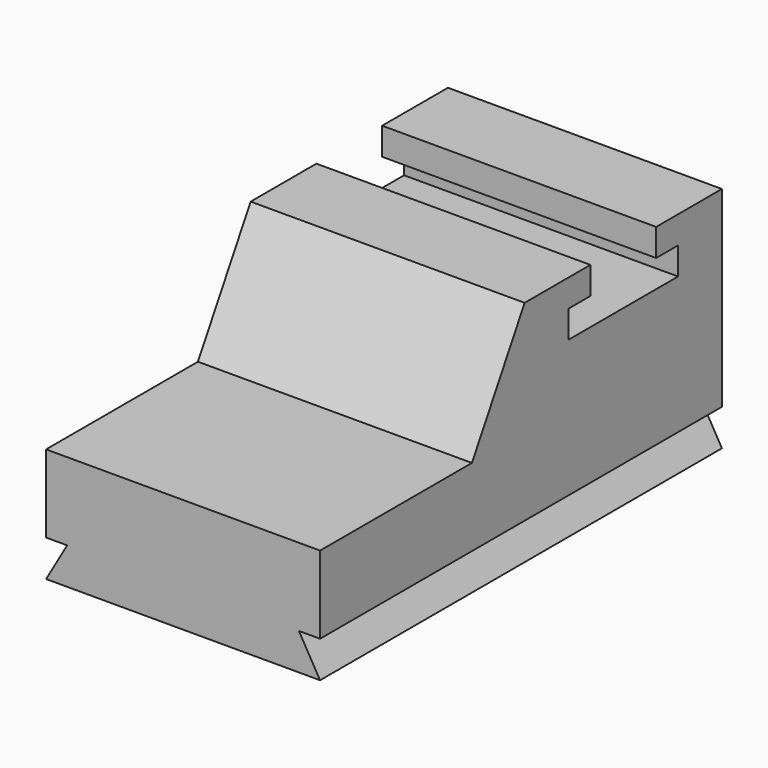
from build123d import *

# Parameters (mm, degrees)
F1_DEPTH = 1524
F2_W     = 1524
F2_H     = 203.2
F3_DEPTH = 2794
F5_DEPTH = 2794


with BuildPart() as f1:
    # F0 (on Right) → F1 (new body)
    with BuildSketch(Plane.YZ):
        Polygon((0, 635), (0, 203.2), (2794, 203.2), (2794, 1270), (2336.8, 1270), (2336.8, 1117.6), (2489.2, 1117.6), (2489.2, 965.2), (1727.2, 965.2), (1727.2, 1117.6), (1879.6, 1117.6), (1879.6, 1270), (1422.4, 1270), (1055.782579, 635), align=None)
    extrude(amount=F1_DEPTH)

    # F2 (on Front) → F3 (join)
    with BuildSketch(Plane.XZ):
        with Locations((762, 101.6)):
            Rectangle(F2_W, F2_H)
    extrude(amount=-F3_DEPTH)

    # F4 (on face) → F5 (cut)
    with BuildSketch(Plane(origin=(0, 2794, 0), x_dir=(-1, 0, 0), z_dir=(0, 1, 0))):
        Polygon((-1524, 203.2), (-1524, 0), (-1406.682425, 203.2), align=None)
        Polygon((-117.317575, 203.2), (0, 0), (0, 203.2), align=None)
    extrude(amount=-F5_DEPTH, mode=Mode.SUBTRACT)


solid = f1.part
